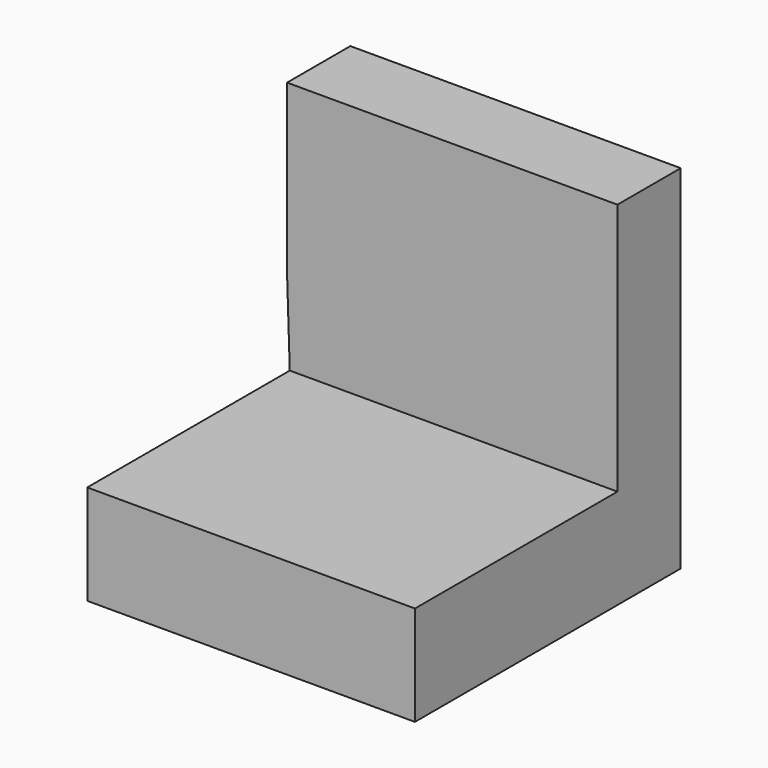
from build123d import *

# Parameters (mm, degrees)
F0_W     = 105.22262
F0_H     = 32.062296
F1_DEPTH = 106.68
F0_W_2   = 106.097046
F0_H_2   = 53.922951
F2_DEPTH = 25.4
F3_DEPTH = 25.4


with BuildPart() as f1:
    # F0 (on Front) → F1 (new body)
    with BuildSketch(Plane.XZ):
        with Locations((-3.93492, -32.597718)):
            Rectangle(F0_W, F0_H)
    extrude(amount=F1_DEPTH)

    # F0 (on Front) → F2 (join)
    with BuildSketch(Plane.XZ):
        with Locations((-4.372133, 37.590868)):
            Rectangle(F0_W_2, F0_H_2)
        Polygon((48.67639, 10.629393), (-57.420656, 10.629393), (-56.54623, -16.56657), (48.67639, -16.56657), align=None)
        with Locations((-3.93492, -32.597718)):
            Rectangle(F0_W, F0_H)
    extrude(amount=F2_DEPTH)

    # F0 (on Front) → F3 (join)
    with BuildSketch(Plane.XZ):
        with Locations((-4.372133, 37.590868)):
            Rectangle(F0_W_2, F0_H_2)
        Polygon((48.67639, 10.629393), (-57.420656, 10.629393), (-56.54623, -16.56657), (48.67639, -16.56657), align=None)
        with Locations((-3.93492, -32.597718)):
            Rectangle(F0_W, F0_H)
    extrude(amount=F3_DEPTH)


solid = f1.part
